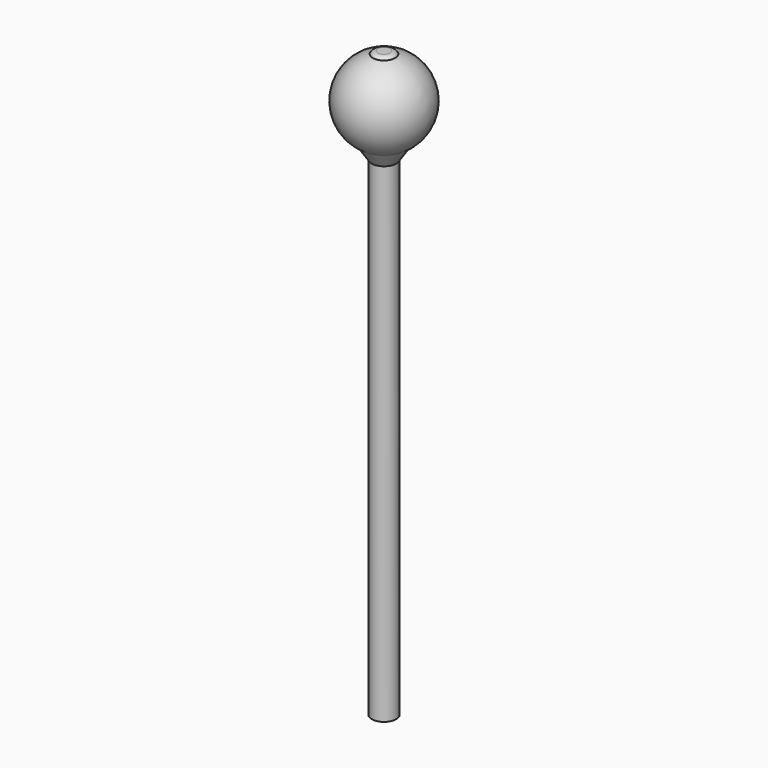
from build123d import *

# Parameters (mm, degrees)
CYLINDER_R        = 1
CYLINDER_DEPTH    = 40
CYLINDER001_R     = 1
CYLINDER001_DEPTH = 10
FILLET_R          = 0.5


with BuildPart() as esfera:
    # Sphere → Sphere (revolve)
    with BuildSketch(Plane(origin=(0, 0, 32.2), x_dir=(1, 0, 0), z_dir=(0, -1, 0))):
        with BuildLine():
            ThreePointArc((0, -3.5), (3.5, 0), (0, 3.5))
            Line((0, 3.5), (0, -3.5))
        make_face()
    revolve(axis=Axis((0, 0, 32.2), (0, 0, 1)))


with BuildPart() as cono:
    # Cone → Cone (revolve)
    with BuildSketch(Plane(origin=(0, 0, 28), x_dir=(1, 0, 0), z_dir=(0, -1, 0))):
        Polygon((0, 0), (1, 0), (3, 3), (0, 3), align=None)
    revolve(axis=Axis((0, 0, 28), (0, 0, 1)))


with BuildPart() as fusion:
    # Cylinder → Cylinder (new body)
    with BuildSketch(Plane.XY.offset(-12)):
        Circle(CYLINDER_R)
    extrude(amount=CYLINDER_DEPTH)

    # Fusion: union Cono
    add(cono.part)


with BuildPart() as fusion002:
    # Cylinder001 → Cylinder001 (new body)
    with BuildSketch(Plane.XY.offset(25.8)):
        Circle(CYLINDER001_R)
    extrude(amount=CYLINDER001_DEPTH)

    # Fillet
    fillet_edges = [fusion002.edges().sort_by_distance(p)[0] for p in [
        (-1, 0, 35.8),
    ]]
    fillet(fillet_edges, radius=FILLET_R)

    # Fusion001: union Fusion
    add(fusion.part)

    # Fusion002: union Esfera
    add(esfera.part)


solid = fusion002.part
